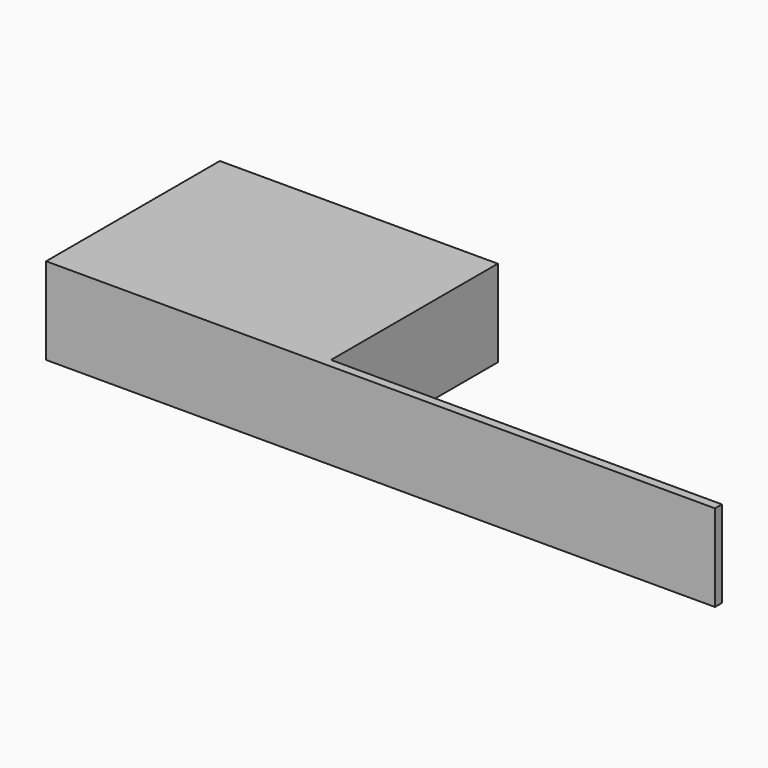
from build123d import *

# Parameters (mm, degrees)
F0_W     = 32
F0_H     = 10
F1_DEPTH = 25
F0_W_2   = 45
F2_DEPTH = 1


with BuildPart() as f1:
    # F0 (on Front) → F1 (new body)
    with BuildSketch(Plane.XZ):
        with Locations((-16, 5)):
            Rectangle(F0_W, F0_H)
    extrude(amount=-F1_DEPTH)

    # F0 (on Front) → F2 (join)
    with BuildSketch(Plane.XZ):
        with Locations((22.5, 5)):
            Rectangle(F0_W_2, F0_H)
    extrude(amount=-F2_DEPTH)


solid = f1.part
